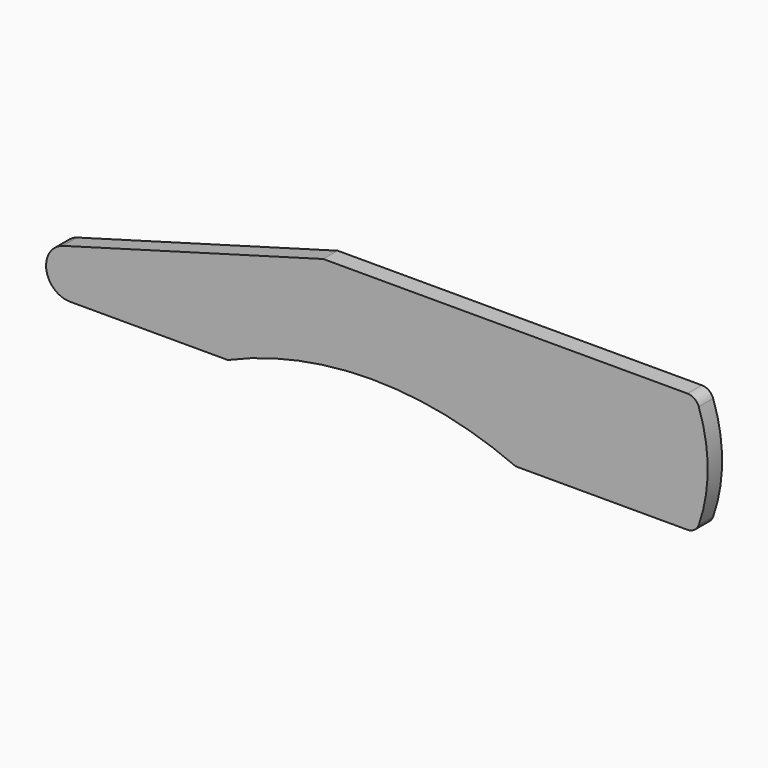
from build123d import *

# Parameters (mm, degrees)
F1_DEPTH = 19.05


with BuildPart() as f1:
    # F0 (on Front) → F1 (new body)
    with BuildSketch(Plane.XZ):
        with BuildLine():
            Line((328.634582, 63.5), (-56.863403, 63.5))
            Line((-56.863403, 63.5), (-332.736589, -13.935924))
            ThreePointArc((-332.736589, -13.935924), (-350.018995, -41.943488), (-325.150903, -63.5))
            Line((-325.150903, -63.5), (-157.95625, -63.5))
            ThreePointArc((-157.95625, -63.5), (-5.55625, -31.82137), (146.84375, -63.5))
            Line((146.84375, -63.5), (328.634582, -63.5))
            ThreePointArc((328.634582, -63.5), (335.963356, -61.172033), (340.605336, -55.041584))
            ThreePointArc((340.605336, -55.041584), (350.068505, 0), (340.605336, 55.041584))
            ThreePointArc((340.605336, 55.041584), (335.963356, 61.172033), (328.634582, 63.5))
        make_face()
    extrude(amount=F1_DEPTH)


solid = f1.part
